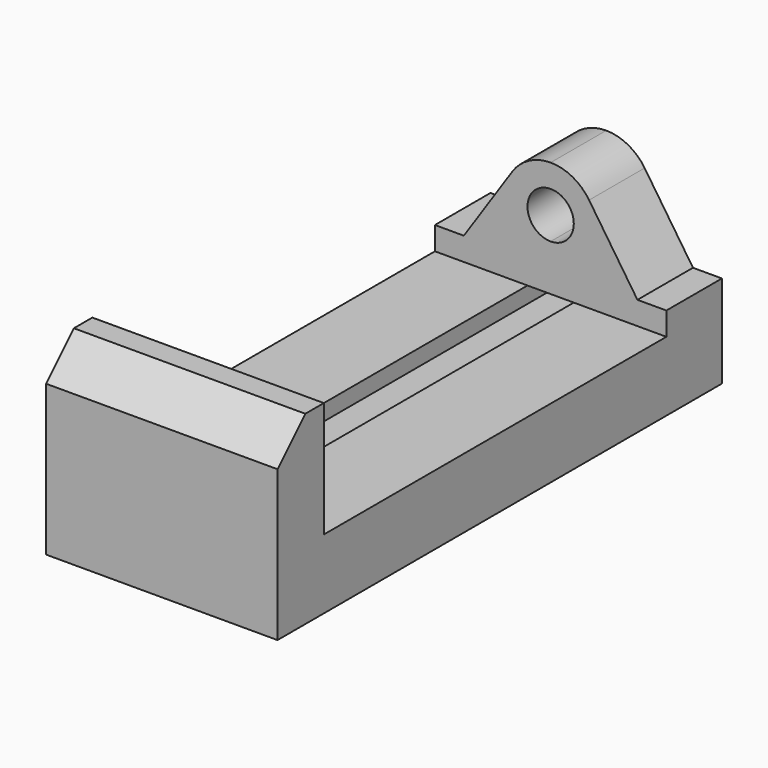
from build123d import *

# Parameters (mm, degrees)
F1_DEPTH      = 38.1
F3_DEPTH      = 63.5
F3_DEPTH_BACK = 63.5
F5_DEPTH      = 273.05


with BuildPart() as f1:
    # F0 (on Front) → F1 (new body)
    with BuildSketch(Plane.XZ):
        with BuildLine():
            Line((-63.5, 50.8), (-63.5, 0))
            Line((-63.5, 0), (0, 0))
            Line((0, 0), (0, 63.5))
            ThreePointArc((0, 63.5), (-12.7, 76.2), (0, 88.9))
            Line((0, 88.9), (0, 101.6))
            ThreePointArc((0, 101.6), (-11.9529411765, 98.6117647059), (-21.0934256055, 90.3501730104))
            Line((-21.0934256055, 90.3501730104), (-47.625, 50.8))
            Line((-47.625, 50.8), (-63.5, 50.8))
        make_face()
        with BuildLine():
            Line((0, 63.5), (0, 0))
            Line((0, 0), (63.5, 0))
            Line((63.5, 0), (63.5, 50.8))
            Line((63.5, 50.8), (47.625, 50.8))
            Line((47.625, 50.8), (21.0934256055, 90.3501730104))
            ThreePointArc((21.0934256055, 90.3501730104), (11.9529411765, 98.6117647059), (0, 101.6))
            Line((0, 101.6), (0, 88.9))
            ThreePointArc((0, 88.9), (8.9802561211, 85.1802561211), (12.7, 76.2))
            ThreePointArc((12.7, 76.2), (8.9802561211, 67.2197438789), (0, 63.5))
        make_face()
    extrude(amount=F1_DEPTH)

    # F2 (on Right) → F3 (join, two sides)
    with BuildSketch(Plane.YZ) as f3_sk:
        Polygon((-304.8, 0), (0, 0), (0, 38.1), (-273.05, 38.1), (-273.05, 101.6), (-285.75, 101.6), (-304.8, 82.55), align=None)
    extrude(amount=-F3_DEPTH)
    extrude(f3_sk.sketch, amount=F3_DEPTH_BACK)

    # F4 (on Front) → F5 (cut)
    with BuildSketch(Plane.XZ):
        Polygon((-12.7, 16.51), (-12.7, 0), (12.7, 0), (12.7, 16.51), (31.75, 16.51), (31.75, 29.21), (12.7, 29.21), (12.7, 38.1), (-12.7, 38.1), (-12.7, 29.21), (-31.75, 29.21), (-31.75, 16.51), align=None)
    extrude(amount=F5_DEPTH, mode=Mode.SUBTRACT)


solid = f1.part
